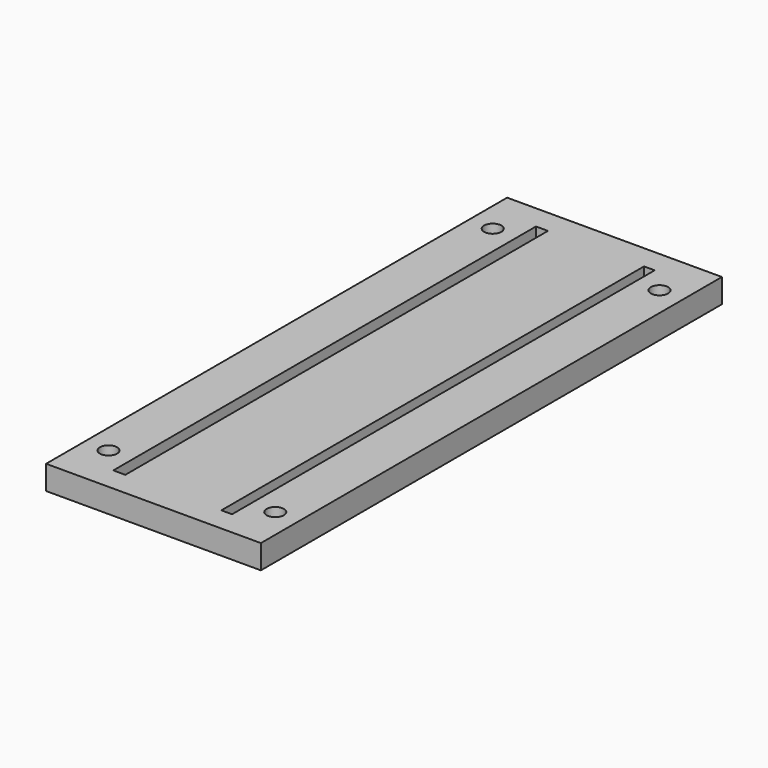
from build123d import *

# Parameters (mm, degrees)
F0_W     = 113.594592
F0_H     = 304.8
F0_R     = 4.564063
F0_W_2   = 6.35
F0_H_2   = 279.4
F0_W_3   = 5.644592
F1_DEPTH = 12.7


with BuildPart() as f1:
    # F0 (on Top) → F1 (new body)
    with BuildSketch(Plane.XY):
        with Locations((-0.352704, 0)):
            Rectangle(F0_W, F0_H)
        with Locations((-44.45, -127)):
            Circle(F0_R, mode=Mode.SUBTRACT)
        with Locations((43.744592, -127)):
            Circle(F0_R, mode=Mode.SUBTRACT)
        with Locations((-28.575, 0)):
            Rectangle(F0_W_2, F0_H_2, mode=Mode.SUBTRACT)
        with Locations((-44.45, 127)):
            Circle(F0_R, mode=Mode.SUBTRACT)
        with Locations((28.222296, 0)):
            Rectangle(F0_W_3, F0_H_2, mode=Mode.SUBTRACT)
        with Locations((43.744592, 127)):
            Circle(F0_R, mode=Mode.SUBTRACT)
    extrude(amount=F1_DEPTH)


solid = f1.part
